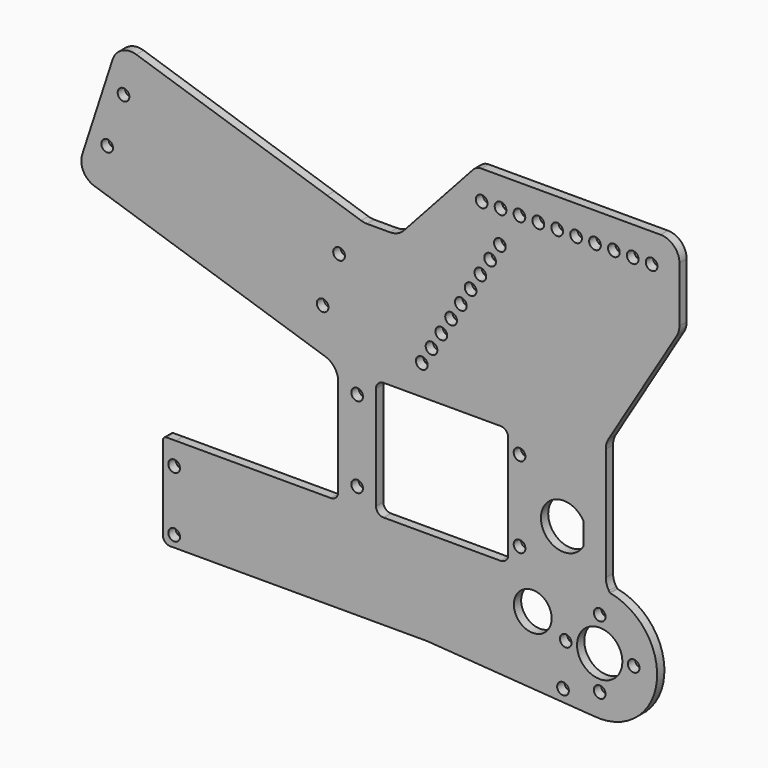
from build123d import *

# Parameters (mm, degrees)
F0_R     = 1.55
F0_R_2   = 5
F0_R_3   = 6
F1_DEPTH = 2.4


with BuildPart() as f1:
    # F0 (on Front) → F1 (new body)
    with BuildSketch(Plane.XZ):
        with BuildLine():
            Line((-108.621812, -36.433733), (-107.21477, -36.41072))
            Line((-107.21477, -36.41072), (-40.668485, -36.41072))
            Line((-40.668485, -36.41072), (3.537217, -39.550132))
            ThreePointArc((3.537217, -39.550132), (20.058172, -26.567412), (7.84607, -9.468945))
            ThreePointArc((7.84607, -9.468945), (7.751121, -9.430233), (7.678601, -9.357742))
            Line((7.678601, -9.357742), (7.442177, -9.002003))
            ThreePointArc((7.442177, -9.002003), (6.8199, -7.679957), (6.606396, -6.234463))
            Line((6.606396, -6.234463), (6.606396, 23.71117))
            ThreePointArc((6.606396, 23.71117), (6.78987, 25.053213), (7.326828, 26.296764))
            Line((7.326828, 26.296764), (23.462316, 53.003568))
            Line((23.462316, 53.003568), (25.392166, 56.197777))
            ThreePointArc((25.392166, 56.197777), (25.929123, 57.441327), (26.112597, 58.78337))
            Line((26.112597, 58.78337), (26.112597, 73.397152))
            ThreePointArc((26.112597, 73.397152), (24.648131, 76.932686), (21.112597, 78.397152))
            Line((21.112597, 78.397152), (-26.302948, 78.397152))
            ThreePointArc((-26.302948, 78.397152), (-27.516081, 78.140928), (-28.521991, 77.416025))
            Line((-28.521991, 77.416025), (-46.817521, 57.3065))
            ThreePointArc((-46.817521, 57.3065), (-48.494039, 56.098327), (-50.515927, 55.671288))
            Line((-50.515927, 55.671288), (-56.604711, 55.671288))
            ThreePointArc((-56.604711, 55.671288), (-57.386884, 55.732846), (-58.149796, 55.916005))
            Line((-58.149796, 55.916005), (-67.178238, 58.849524))
            Line((-67.178238, 58.849524), (-117.661327, 75.252474))
            ThreePointArc((-117.661327, 75.252474), (-121.476365, 74.952224), (-123.961695, 72.042276))
            Line((-123.961695, 72.042276), (-124.270712, 71.09122))
            Line((-124.270712, 71.09122), (-69.03234, 53.143185))
            Line((-69.03234, 53.143185), (-63.194846, 51.246468))
            Line((-63.194846, 51.246468), (-57.696755, 49.46003))
            Line((-57.696755, 49.46003), (-65.13994, 26.552263))
            Line((-65.13994, 26.552263), (-70.638031, 28.338701))
            Line((-70.638031, 28.338701), (-76.448748, 30.317828))
            Line((-76.448748, 30.317828), (-110.062212, 41.239505))
            Line((-110.062212, 41.239505), (-131.687119, 48.265863))
            Line((-131.687119, 48.265863), (-131.996136, 47.314807))
            ThreePointArc((-131.996136, 47.314807), (-131.695887, 43.499769), (-128.785939, 41.014439))
            Line((-128.785939, 41.014439), (-67.669685, 21.156564))
            ThreePointArc((-67.669685, 21.156564), (-65.169685, 19.340208), (-64.21477, 16.401282))
            Line((-64.21477, 16.401282), (-64.21477, -9.363156))
            ThreePointArc((-64.21477, -9.363156), (-64.800556, -10.777369), (-66.21477, -11.363156))
            Line((-66.21477, -11.363156), (-69.222616, -11.363156))
            Line((-69.222616, -11.363156), (-107.21477, -11.363156))
            ThreePointArc((-107.21477, -11.363156), (-107.227913, -11.363199), (-107.241055, -11.363329))
            Line((-107.241055, -11.363329), (-109.66109, -11.379232))
            ThreePointArc((-109.66109, -11.379232), (-110.363945, -11.674431), (-110.654519, -12.379211))
            Line((-110.654519, -12.379211), (-110.654519, -34.434))
            ThreePointArc((-110.654519, -34.434), (-110.057121, -35.859731), (-108.621812, -36.433733))
        make_face()
        with Locations((-107.654519, -33.41072)):
            Circle(F0_R, mode=Mode.SUBTRACT)
        with Locations((-107.654519, -17.41072)):
            Circle(F0_R, mode=Mode.SUBTRACT)
        with Locations((-59.21477, -6.363156)):
            Circle(F0_R, mode=Mode.SUBTRACT)
        with Locations((-59.21477, 15.033994)):
            Circle(F0_R, mode=Mode.SUBTRACT)
        with Locations((-4.71477, -35.80329)):
            Circle(F0_R, mode=Mode.SUBTRACT)
        with Locations((5.001765, -33.41072)):
            Circle(F0_R, mode=Mode.SUBTRACT)
        with Locations((-3.998235, -24.41072)):
            Circle(F0_R, mode=Mode.SUBTRACT)
        with Locations((-12.71477, -20.41072)):
            Circle(F0_R_2, mode=Mode.SUBTRACT)
        with Locations((5.001765, -24.41072)):
            Circle(F0_R_3, mode=Mode.SUBTRACT)
        with Locations((5.001765, -15.41072)):
            Circle(F0_R, mode=Mode.SUBTRACT)
        with Locations((14.001765, -24.41072)):
            Circle(F0_R, mode=Mode.SUBTRACT)
        with BuildLine():
            Line((-21.21477, -11.363156), (-52.21477, -11.363156))
            ThreePointArc((-52.21477, -11.363156), (-53.628983, -10.777369), (-54.21477, -9.363156))
            Line((-54.21477, -9.363156), (-54.21477, 18.033994))
            ThreePointArc((-54.21477, 18.033994), (-53.628983, 19.448208), (-52.21477, 20.033994))
            Line((-52.21477, 20.033994), (-21.21477, 20.033994))
            ThreePointArc((-21.21477, 20.033994), (-19.800556, 19.448208), (-19.21477, 18.033994))
            Line((-19.21477, 18.033994), (-19.21477, -9.363156))
            ThreePointArc((-19.21477, -9.363156), (-19.800556, -10.777369), (-21.21477, -11.363156))
        make_face(mode=Mode.SUBTRACT)
        with Locations((-16.21477, -6.363156)):
            Circle(F0_R, mode=Mode.SUBTRACT)
        with Locations((-16.21477, 15.033994)):
            Circle(F0_R, mode=Mode.SUBTRACT)
        with BuildLine():
            ThreePointArc((0.650781, -0.909588), (-10.547568, 2.086604), (0.650781, 5.082797))
            Line((0.650781, 5.082797), (0.650781, -0.909588))
        make_face(mode=Mode.SUBTRACT)
        with Locations((-42.103694, 27.951924)):
            Circle(F0_R, mode=Mode.SUBTRACT)
        with Locations((-39.518101, 32.231493)):
            Circle(F0_R, mode=Mode.SUBTRACT)
        with Locations((-36.932508, 36.511062)):
            Circle(F0_R, mode=Mode.SUBTRACT)
        with Locations((-34.346915, 40.79063)):
            Circle(F0_R, mode=Mode.SUBTRACT)
        with Locations((-31.761322, 45.070199)):
            Circle(F0_R, mode=Mode.SUBTRACT)
        with Locations((-29.175728, 49.349768)):
            Circle(F0_R, mode=Mode.SUBTRACT)
        with Locations((-26.590135, 53.629336)):
            Circle(F0_R, mode=Mode.SUBTRACT)
        with Locations((-24.004542, 57.908905)):
            Circle(F0_R, mode=Mode.SUBTRACT)
        with Locations((-21.418949, 62.188474)):
            Circle(F0_R, mode=Mode.SUBTRACT)
        with Locations((-26.247763, 70.747611)):
            Circle(F0_R, mode=Mode.SUBTRACT)
        with Locations((-21.247763, 70.747611)):
            Circle(F0_R, mode=Mode.SUBTRACT)
        with Locations((-16.247763, 70.747611)):
            Circle(F0_R, mode=Mode.SUBTRACT)
        with Locations((-11.247763, 70.747611)):
            Circle(F0_R, mode=Mode.SUBTRACT)
        with Locations((-6.247763, 70.747611)):
            Circle(F0_R, mode=Mode.SUBTRACT)
        with Locations((-1.247763, 70.747611)):
            Circle(F0_R, mode=Mode.SUBTRACT)
        with Locations((3.752237, 70.747611)):
            Circle(F0_R, mode=Mode.SUBTRACT)
        with Locations((8.752237, 70.747611)):
            Circle(F0_R, mode=Mode.SUBTRACT)
        with Locations((13.752237, 70.747611)):
            Circle(F0_R, mode=Mode.SUBTRACT)
        with Locations((18.752237, 70.747611)):
            Circle(F0_R, mode=Mode.SUBTRACT)
        Polygon((-124.270712, 71.09122), (-131.687119, 48.265863), (-110.062212, 41.239505), (-76.448748, 30.317828), (-70.638031, 28.338701), (-65.13994, 26.552263), (-57.696755, 49.46003), (-63.194846, 51.246468), (-69.03234, 53.143185), align=None)
        with Locations((-68.350138, 32.85263)):
            Circle(F0_R, mode=Mode.SUBTRACT)
        with Locations((-63.997123, 46.249832)):
            Circle(F0_R, mode=Mode.SUBTRACT)
        with Locations((-125.386752, 51.476061)):
            Circle(F0_R, mode=Mode.SUBTRACT)
        with Locations((-121.060514, 64.790852)):
            Circle(F0_R, mode=Mode.SUBTRACT)
    extrude(amount=F1_DEPTH)


solid = f1.part
